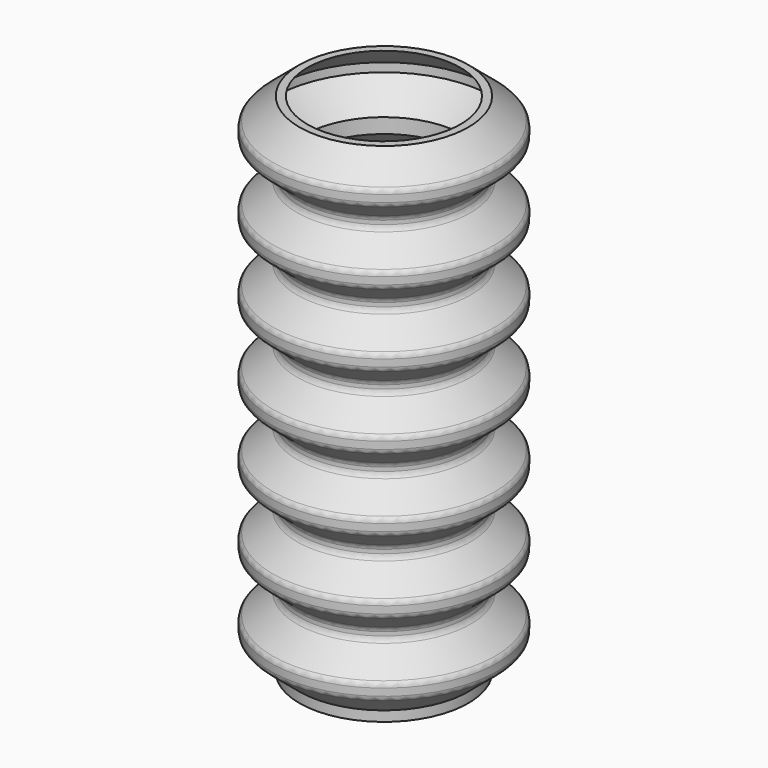
from build123d import *

# Parameters (mm, degrees)
F2_T = -1.5
F3_R = 2
F4_R = 2


with BuildPart() as f1:
    # F0 (on Front) → F1 (revolve)
    with BuildSketch(Plane.XZ):
        Polygon((-25, -21.951315562), (0, -21.951315562), (0, 128.048684438), (-25, 128.048684438), (-33.597650918, 120.8343987237), (-33.597650918, 116.8343987237), (-25, 109.6201130094), (-25, 106.6201130094), (-33.597650918, 99.4058272951), (-33.597650918, 95.4058272951), (-25, 88.1915415808), (-25, 85.1915415808), (-33.597650918, 77.9772558665), (-33.597650918, 73.9772558665), (-25, 66.7629701522), (-25, 63.7629701522), (-33.597650918, 56.548684438), (-33.597650918, 52.548684438), (-25, 45.3343987237), (-25, 42.3343987237), (-33.597650918, 35.1201130094), (-33.597650918, 31.1201130094), (-25, 23.9058272951), (-25, 20.9058272951), (-33.597650918, 13.6915415808), (-33.597650918, 9.6915415808), (-25, 2.4772558665), (-25, -0.5227441335), (-33.597650918, -7.7370298478), (-33.597650918, -11.7370298478), (-25, -18.951315562), align=None)
    revolve(axis=Axis((0, 0, 22.978876858), (0, 0, -1)))

    # F2
    f2_openings = [f1.faces().sort_by_distance(p)[0] for p in [
        (0, 0, 128.048684),
        (0, 0, -21.951316),
    ]]
    offset(amount=F2_T, openings=f2_openings, kind=Kind.INTERSECTION)

    # F3
    f3_edges = [f1.edges().sort_by_distance(p)[0] for p in [
        (33.597651, 0, 120.834399),
        (33.597651, 0, 116.834399),
        (-33.597651, 0, 118.834399),
        (33.597651, 0, 99.405827),
        (33.597651, 0, 95.405827),
        (-33.597651, 0, 97.405827),
        (33.597651, 0, 77.977256),
        (33.597651, 0, 73.977256),
        (-33.597651, 0, 75.977256),
        (33.597651, 0, 56.548684),
        (33.597651, 0, 52.548684),
        (-33.597651, 0, 54.548684),
        (33.597651, 0, 35.120113),
        (33.597651, 0, 31.120113),
        (-33.597651, 0, 33.120113),
        (33.597651, 0, 13.691542),
        (33.597651, 0, 9.691542),
        (-33.597651, 0, 11.691542),
        (33.597651, 0, -7.73703),
        (33.597651, 0, -11.73703),
        (-33.597651, 0, -9.73703),
    ]]
    fillet(f3_edges, radius=F3_R)

    # F4
    f4_edges = [f1.edges().sort_by_distance(p)[0] for p in [
        (25, 0, 109.620113),
        (25, 0, 106.620113),
        (-25, 0, 108.120113),
        (25, 0, 88.191542),
        (25, 0, 85.191542),
        (-25, 0, 86.691542),
        (25, 0, 66.76297),
        (25, 0, 63.76297),
        (-25, 0, 65.26297),
        (25, 0, 45.334399),
        (25, 0, 42.334399),
        (-25, 0, 43.834399),
        (25, 0, 23.905827),
        (25, 0, 20.905827),
        (-25, 0, 22.405827),
        (25, 0, 2.477256),
        (25, 0, -0.522744),
        (-25, 0, 0.977256),
    ]]
    fillet(f4_edges, radius=F4_R)


solid = f1.part
